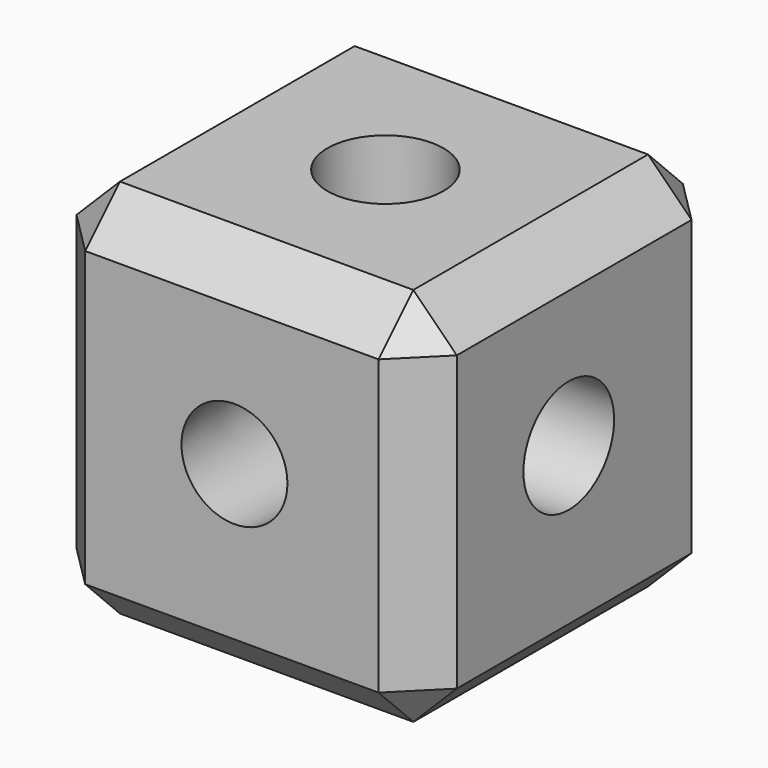
from build123d import *

# Parameters (mm, degrees)
F0_W     = 44.45
F0_H     = 44.45
F1_DEPTH = 44.45
F2_SIZE  = 5.08
F3_R     = 6.193634842
F4_DEPTH = 44.45
F4_TAPER = -3
F5_R     = 6.624200194
F6_DEPTH = 44.45
F7_R     = 6.7861225167
F8_DEPTH = 44.45


with BuildPart() as f1:
    # F0 (on Front) → F1 (new body)
    with BuildSketch(Plane.XZ):
        with Locations((-37.4482907355, 22.7117961845)):
            Rectangle(F0_W, F0_H)
    extrude(amount=F1_DEPTH)

    # F2
    f2_edges = [f1.edges().sort_by_distance(p)[0] for p in [
        (-37.448291, -44.45, 44.936796),
        (-59.673291, -44.45, 22.711796),
        (-37.448291, -44.45, 0.486796),
        (-15.223291, -44.45, 22.711796),
        (-15.223291, -22.225, 44.936796),
        (-37.448291, 0, 44.936796),
        (-59.673291, -22.225, 44.936796),
        (-15.223291, -22.225, 0.486796),
        (-37.448291, 0, 0.486796),
        (-59.673291, -22.225, 0.486796),
        (-15.223291, 0, 22.711796),
        (-59.673291, 0, 22.711796),
    ]]
    chamfer(f2_edges, length=F2_SIZE)

    # F3 (on face) → F4 (cut)
    with BuildSketch(Plane.XZ.offset(44.45)):
        with Locations((-37.1474996209, 23.6119739711)):
            Circle(F3_R)
    extrude(amount=-F4_DEPTH, taper=F4_TAPER, mode=Mode.SUBTRACT)

    # F5 (on face) → F6 (cut)
    with BuildSketch(Plane(origin=(-59.6732907355, 0, 0), x_dir=(0, -1, 0), z_dir=(-1, 0, 0))):
        with Locations((23.0103936046, 23.9244699478)):
            Circle(F5_R)
    extrude(amount=-F6_DEPTH, mode=Mode.SUBTRACT)

    # F7 (on face) → F8 (cut)
    with BuildSketch(Plane.XY.offset(44.9367961845)):
        with Locations((-37.1474996209, -22.3971121013)):
            Circle(F7_R)
    extrude(amount=-F8_DEPTH, mode=Mode.SUBTRACT)


solid = f1.part
